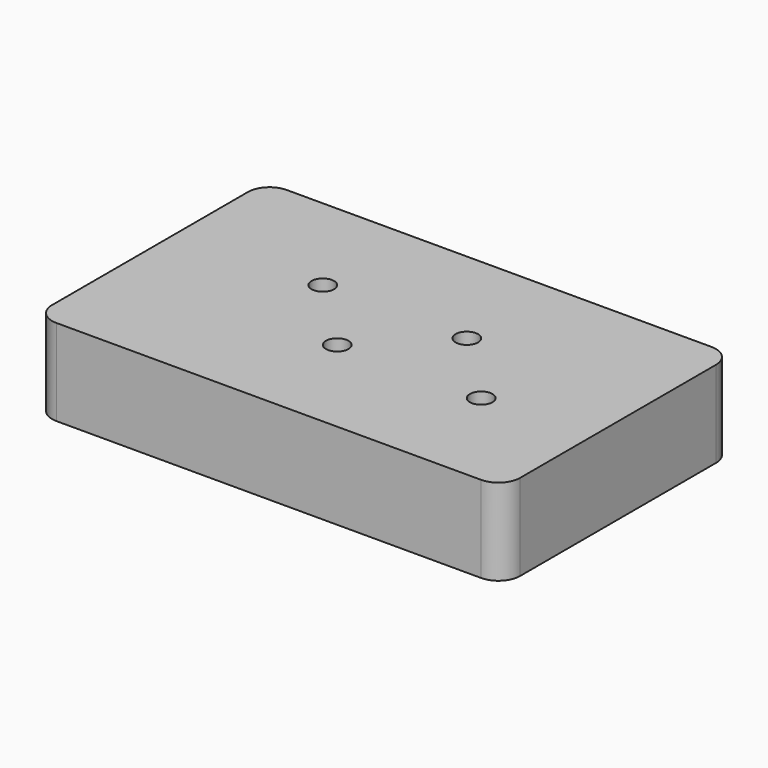
from build123d import *

# Parameters (mm, degrees)
SKETCH_W  = 65
SKETCH_H  = 40
SKETCH_R  = 1.5625
PAD_DEPTH = 12
FILLET_R  = 3


with BuildPart() as part:
    # Sketch → Pad (new body)
    with BuildSketch(Plane.XY):
        with Locations((32.5, 20)):
            Rectangle(SKETCH_W, SKETCH_H)
        with Locations((20, 25)):
            Circle(SKETCH_R, mode=Mode.SUBTRACT)
        with Locations((40, 25)):
            Circle(SKETCH_R, mode=Mode.SUBTRACT)
        with Locations((30, 15)):
            Circle(SKETCH_R, mode=Mode.SUBTRACT)
        with Locations((50, 15)):
            Circle(SKETCH_R, mode=Mode.SUBTRACT)
    extrude(amount=PAD_DEPTH)

    # Fillet
    fillet_edges = [part.edges().sort_by_distance(p)[0] for p in [
        (65, 40, 6),
        (0, 40, 6),
        (0, 0, 6),
        (65, 0, 6),
    ]]
    fillet(fillet_edges, radius=FILLET_R)


solid = part.part
